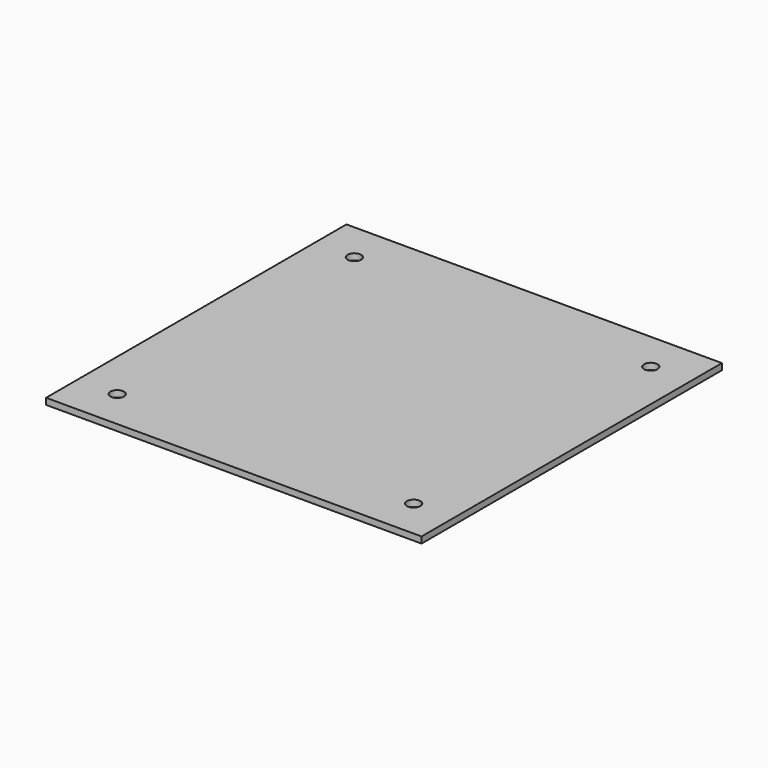
from build123d import *

# Parameters (mm, degrees)
F0_W     = 190
F0_H     = 190
F0_R     = 3.413695
F0_R_2   = 3.4135
F0_R_3   = 49.746444
F1_DEPTH = 3.2


with BuildPart() as f1:
    # F0 (on Top) → F1 (new body)
    with BuildSketch(Plane.XY):
        Rectangle(F0_W, F0_H)
        with Locations((-75, -75)):
            Circle(F0_R, mode=Mode.SUBTRACT)
        with Locations((75, -75)):
            Circle(F0_R_2, mode=Mode.SUBTRACT)
        with Locations((-75, 75)):
            Circle(F0_R_2, mode=Mode.SUBTRACT)
        Circle(F0_R_3, mode=Mode.SUBTRACT)
        with Locations((75, 75)):
            Circle(F0_R_2, mode=Mode.SUBTRACT)
        Circle(F0_R_3)
    extrude(amount=F1_DEPTH)


solid = f1.part
